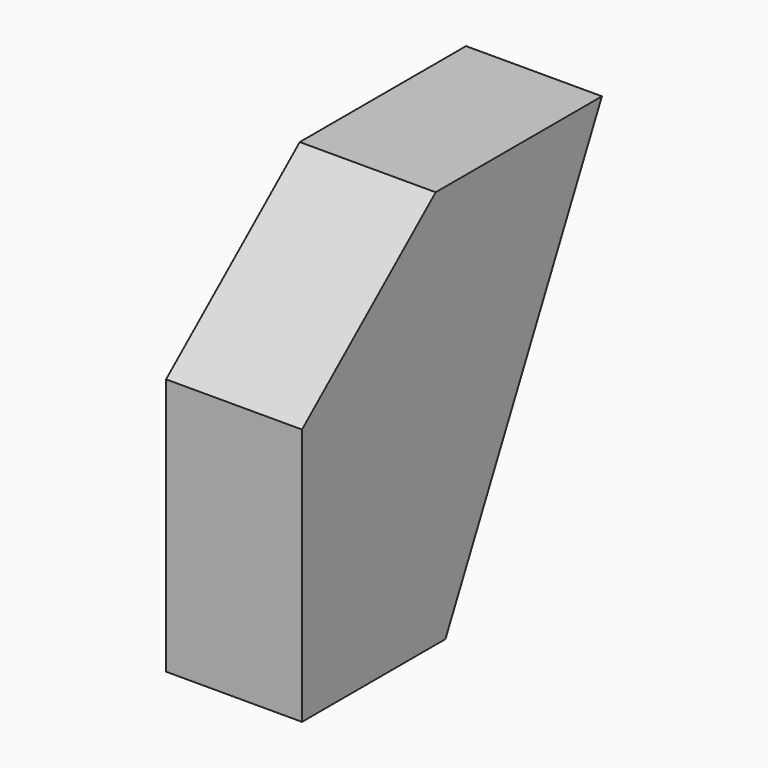
from build123d import *

# Parameters (mm, degrees)
F0_W     = 33.5071906447
F0_H     = 48.0974167585
F1_DEPTH = 25.4


with BuildPart() as f1:
    # F0 (on Right) → F1 (new body)
    with BuildSketch(Plane.YZ):
        Polygon((31.2226135284, 74.4392722845), (0, 48.0974167585), (33.5071906447, 48.0974167585), align=None)
        Polygon((31.2226135284, 74.4392722845), (33.5071906447, 48.0974167585), (70.0604990125, 74.4392722845), align=None)
        Polygon((33.5071906447, 48.0974167585), (33.5071906447, 0), (70.0604990125, 74.4392722845), align=None)
        with Locations((16.7535953224, 24.0487083793)):
            Rectangle(F0_W, F0_H)
    extrude(amount=F1_DEPTH)


solid = f1.part
